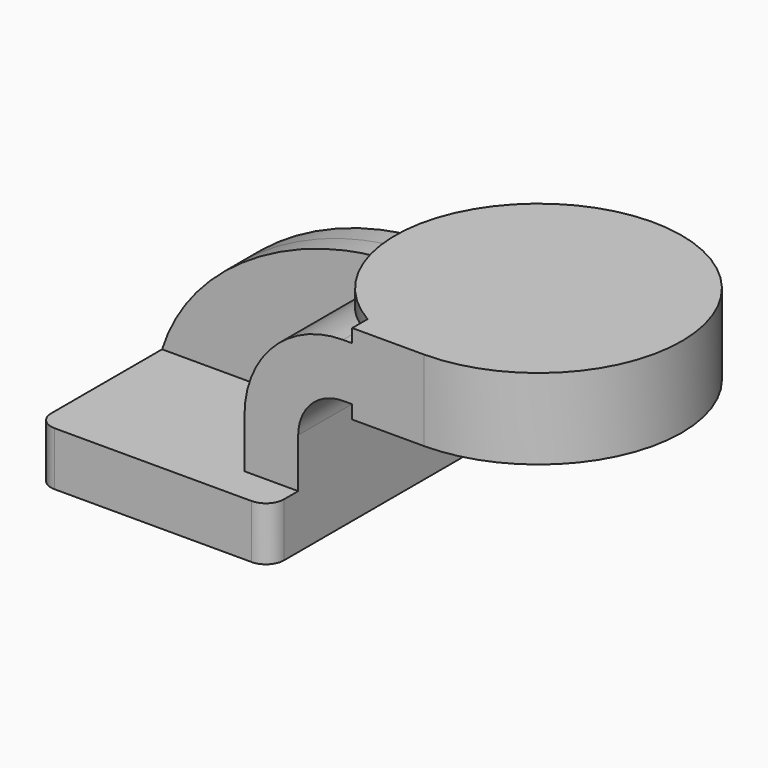
from build123d import *

# Parameters (mm, degrees)
F1_DEPTH  = 63.5
F2_DEPTH  = 50.8
F3_DEPTH  = 7.9375
F2_FACE_W = 50.8
F2_FACE_H = 28.575
F5_R      = 6.35


with BuildPart() as f1:
    # F0 (on Front) → F1 (new body, symmetric)
    with BuildSketch(Plane.XZ):
        Polygon((-41.275, 9.525), (-41.275, -9.525), (41.275, -9.525), (41.275, 9.525), (22.225, 9.525), align=None)
    extrude(amount=F1_DEPTH, both=True)

    # F0 (on Front) → F2 (join)
    with BuildSketch(Plane.XZ):
        with BuildLine():
            Line((22.225, 9.525), (41.275, 9.525))
            Line((41.275, 9.525), (41.275, 27.0002))
            ThreePointArc((41.275, 27.0002), (45.92468, 38.22552), (57.15, 42.8752))
            Line((57.15, 42.8752), (60.430248, 42.8752))
            Line((60.430248, 42.8752), (60.430248, 61.9252))
            Line((60.430248, 61.9252), (57.15, 61.9252))
            ThreePointArc((57.15, 61.9252), (32.454296, 51.695904), (22.225, 27.0002))
            Line((22.225, 27.0002), (22.225, 9.525))
        make_face()
        Polygon((60.430248, 66.675), (60.430248, 61.9252), (60.430248, 42.8752), (60.430248, 38.1), (85.830248, 38.1), (85.830248, 66.675), align=None)
    extrude(amount=F2_DEPTH)

    # F0 (on Front) → F3 (join, symmetric)
    with BuildSketch(Plane.XZ):
        with BuildLine():
            add(Edge.make_bspline(
                [(-41.275, 9.525), (-28.744785, 49.276773), (25.011688, 69.808759), (57.15, 61.9252)],
                knots=[0, 0, 0, 0, 111.504536, 111.504536, 111.504536, 111.504536], degree=3))
            Line((-41.275, 9.525), (22.225, 9.525))
            Line((22.225, 9.525), (22.225, 27.0002))
            ThreePointArc((22.225, 27.0002), (32.454296, 51.695904), (57.15, 61.9252))
        make_face()
    extrude(amount=F3_DEPTH, both=True)

    # F2_face (on face) → F4 (revolve)
    with BuildSketch(Plane(origin=(85.830248, -25.4, 52.3875), x_dir=(0, 1, 0), z_dir=(1, 0, 0))):
        Rectangle(F2_FACE_W, F2_FACE_H)
    revolve(axis=Axis((85.830248, 0, 52.3875), (0, 0, 1)))

    # F5
    f5_edges = [f1.edges().sort_by_distance(p)[0] for p in [
        (41.275, -63.5, 0),
        (-41.275, -63.5, 0),
        (41.275, 63.5, 0),
        (-41.275, 63.5, 0),
    ]]
    fillet(f5_edges, radius=F5_R)


solid = f1.part
